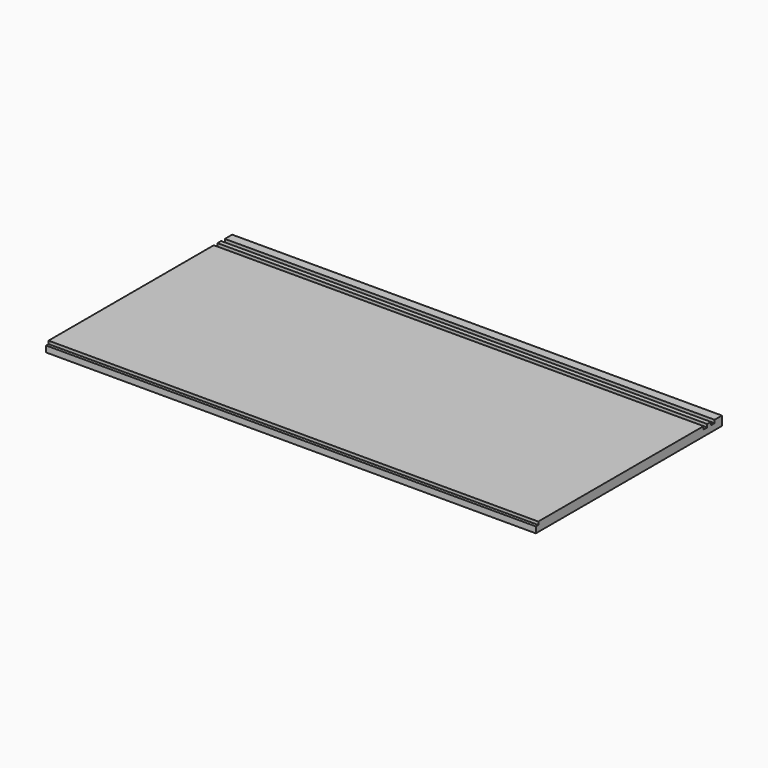
from build123d import *

# Parameters (mm, degrees)
F0_W     = 1016
F0_H     = 482.6
F1_DEPTH = 19.05
F2_W     = 1016
F2_H     = 9.525
F2_H_2   = 6.35
F3_DEPTH = 6.35


with BuildPart() as f1:
    # F0 (on Top) → F1 (new body)
    with BuildSketch(Plane.XY):
        with Locations((523.877001, 255.359498)):
            Rectangle(F0_W, F0_H)
    extrude(amount=F1_DEPTH)

    # F2 (on face) → F3 (cut)
    with BuildSketch(Plane.XY.offset(19.05)):
        with Locations((523.877001, 472.846998)):
            Rectangle(F2_W, F2_H)
        with Locations((523.877001, 453.796998)):
            Rectangle(F2_W, F2_H)
        with Locations((523.877001, 17.234498)):
            Rectangle(F2_W, F2_H_2)
    extrude(amount=-F3_DEPTH, mode=Mode.SUBTRACT)


solid = f1.part
